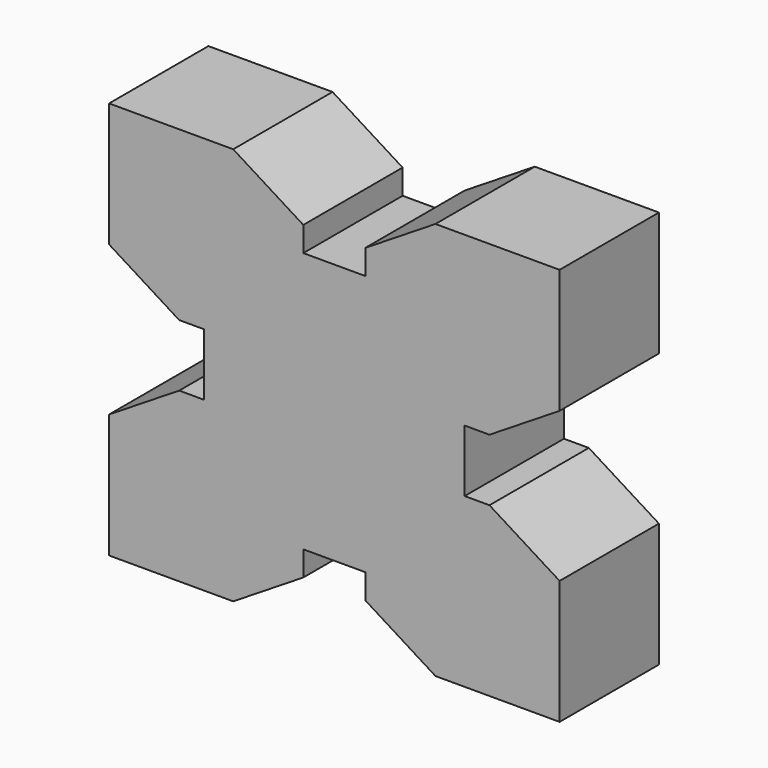
from build123d import *

# Parameters (mm, degrees)
F1_DEPTH = 12.7


with BuildPart() as f1:
    # F0 (on Front) → F1 (new body, symmetric)
    with BuildSketch(Plane.XZ):
        Polygon((-60.049345, 47.064326), (-60.049345, 40.714326), (-6.725921, 40.714326), (-6.725921, 47.064326), (-1.645921, 47.064326), (12.7, 56.028652), (12.7, 81.428652), (-12.7, 81.428652), (-27.037633, 72.469505), (-27.037633, 67.389505), (-39.737633, 67.389505), (-39.737633, 72.469505), (-54.075266, 81.428652), (-79.475266, 81.428652), (-79.475266, 56.028652), (-65.129345, 47.064326), align=None)
        Polygon((-65.129345, 34.364326), (-79.475266, 25.4), (-79.475266, 0), (-54.075266, 0), (-39.737633, 8.959147), (-39.737633, 14.039147), (-27.037633, 14.039147), (-27.037633, 8.959147), (-12.7, 0), (12.7, 0), (12.7, 25.4), (-1.645921, 34.364326), (-6.725921, 34.364326), (-6.725921, 40.714326), (-60.049345, 40.714326), (-60.049345, 34.364326), align=None)
    extrude(amount=F1_DEPTH, both=True)


solid = f1.part
